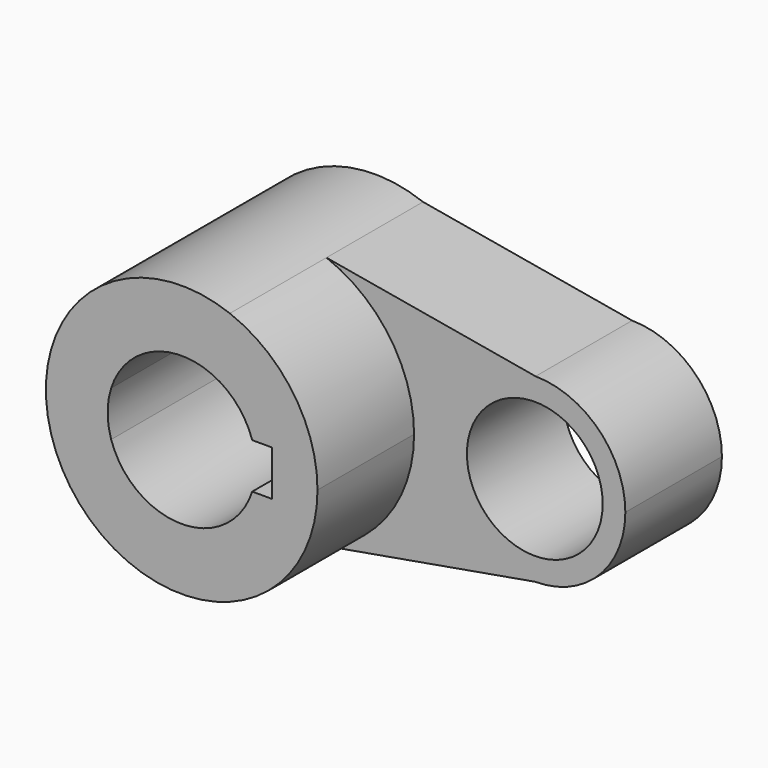
from build123d import *

# Parameters (mm, degrees)
F0_R     = 14.2875
F1_DEPTH = 25.4
F2_DEPTH = 50.8


with BuildPart() as f1:
    # F0 (on Front) → F1 (new body)
    with BuildSketch(Plane.XZ):
        with BuildLine():
            ThreePointArc((10.136707, -26.71662), (23.51794, -16.230746), (28.575, 0))
            ThreePointArc((28.575, 0), (23.51794, 16.230746), (10.136707, 26.71662))
            ThreePointArc((10.136707, 26.71662), (-28.575, 0), (10.136707, -26.71662))
        make_face()
        with BuildLine():
            ThreePointArc((-14.836308, 4.7625), (0, 15.581959), (14.836308, 4.7625))
            Line((14.836308, 4.7625), (19.05, 4.7625))
            Line((19.05, 4.7625), (19.05, -4.7625))
            Line((19.05, -4.7625), (14.836308, -4.7625))
            ThreePointArc((14.836308, -4.7625), (0, -15.581959), (-14.836308, -4.7625))
            Line((-14.836308, -4.7625), (-19.05, -4.7625))
            Line((-19.05, -4.7625), (-19.05, 4.7625))
            Line((-19.05, 4.7625), (-14.836308, 4.7625))
        make_face(mode=Mode.SUBTRACT)
        with BuildLine():
            ThreePointArc((10.136707, 26.71662), (23.51794, 16.230746), (28.575, 0))
            ThreePointArc((28.575, 0), (23.51794, -16.230746), (10.136707, -26.71662))
            Line((10.136707, -26.71662), (53.975, -19.05))
            ThreePointArc((53.975, -19.05), (34.925167, 0.079674), (54.134347, 19.049334))
            Line((54.134347, 19.049334), (10.136707, 26.71662))
        make_face()
        with BuildLine():
            ThreePointArc((73.025, 0), (67.501604, 13.413928), (54.134347, 19.049334))
            ThreePointArc((54.134347, 19.049334), (34.925167, 0.079674), (53.975, -19.05))
            ThreePointArc((53.975, -19.05), (67.445384, -13.470384), (73.025, 0))
        make_face()
        with Locations((53.975, 0)):
            Circle(F0_R, mode=Mode.SUBTRACT)
        with BuildLine():
            ThreePointArc((-14.836308, -4.7625), (-15.581959, 0), (-14.836308, 4.7625))
            Line((-14.836308, 4.7625), (-19.05, 4.7625))
            Line((-19.05, 4.7625), (-19.05, -4.7625))
            Line((-19.05, -4.7625), (-14.836308, -4.7625))
        make_face()
    extrude(amount=F1_DEPTH)

    # F0 (on Front) → F2 (join)
    with BuildSketch(Plane.XZ):
        with BuildLine():
            ThreePointArc((10.136707, -26.71662), (23.51794, -16.230746), (28.575, 0))
            ThreePointArc((28.575, 0), (23.51794, 16.230746), (10.136707, 26.71662))
            ThreePointArc((10.136707, 26.71662), (-28.575, 0), (10.136707, -26.71662))
        make_face()
        with BuildLine():
            ThreePointArc((-14.836308, 4.7625), (0, 15.581959), (14.836308, 4.7625))
            Line((14.836308, 4.7625), (19.05, 4.7625))
            Line((19.05, 4.7625), (19.05, -4.7625))
            Line((19.05, -4.7625), (14.836308, -4.7625))
            ThreePointArc((14.836308, -4.7625), (0, -15.581959), (-14.836308, -4.7625))
            Line((-14.836308, -4.7625), (-19.05, -4.7625))
            Line((-19.05, -4.7625), (-19.05, 4.7625))
            Line((-19.05, 4.7625), (-14.836308, 4.7625))
        make_face(mode=Mode.SUBTRACT)
        with BuildLine():
            ThreePointArc((-14.836308, -4.7625), (-15.581959, 0), (-14.836308, 4.7625))
            Line((-14.836308, 4.7625), (-19.05, 4.7625))
            Line((-19.05, 4.7625), (-19.05, -4.7625))
            Line((-19.05, -4.7625), (-14.836308, -4.7625))
        make_face()
    extrude(amount=F2_DEPTH)


solid = f1.part
